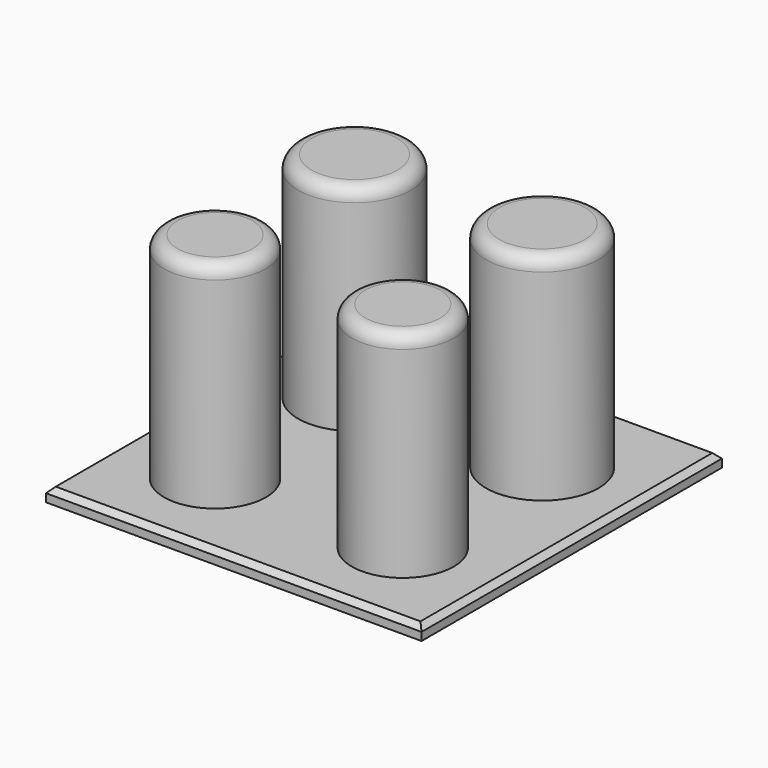
from build123d import *

# Parameters (mm, degrees)
F0_W     = 140
F0_H     = 140
F1_DEPTH = 5
F2_SIZE  = 2
F3_R     = 21
F3_R_2   = 19
F4_DEPTH = 80
F5_R     = 5


with BuildPart() as f1:
    # F0 (on Top) → F1 (new body)
    with BuildSketch(Plane.XY):
        Rectangle(F0_W, F0_H)
    extrude(amount=F1_DEPTH)

    # F2
    f2_edges = [f1.edges().sort_by_distance(p)[0] for p in [
        (0, -70, 5),
        (0, 70, 5),
        (-70, 0, 5),
        (70, 0, 5),
    ]]
    chamfer(f2_edges, length=F2_SIZE)

    # F3 (on face) → F4 (join)
    with BuildSketch(Plane.XY.offset(5)):
        with Locations((-35, 30)):
            Circle(F3_R)
        with Locations((35, 30)):
            Circle(F3_R)
        with Locations((-35, -35)):
            Circle(F3_R_2)
        with Locations((35, -35)):
            Circle(F3_R_2)
    extrude(amount=F4_DEPTH)

    # F5
    f5_edges = [f1.edges().sort_by_distance(p)[0] for p in [
        (-56, 30, 85),
        (14, 30, 85),
        (-54, -35, 85),
        (16, -35, 85),
    ]]
    fillet(f5_edges, radius=F5_R)


solid = f1.part
